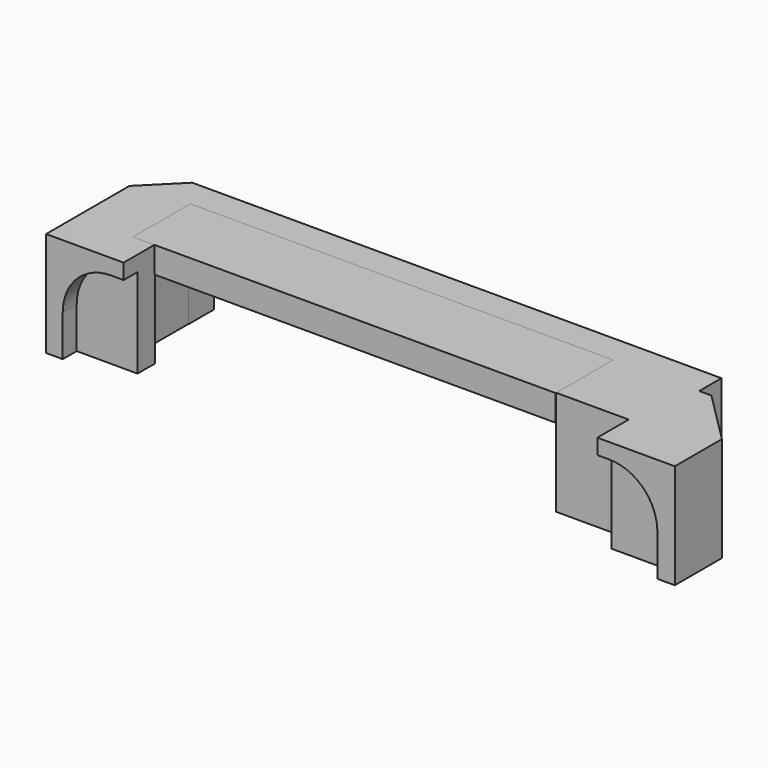
from build123d import *

# Parameters (mm, degrees)
PAD058_DEPTH    = 6
SKETCH116_W     = 24.152938
SKETCH116_H     = 2.034207
POCKET050_DEPTH = 3
CHAMFER024_SIZE = 1.3
POCKET051_DEPTH = 1
CHAMFER025_SIZE = 3
CHAMFER026_SIZE = 2
SKETCH118_W     = 4.108101
SKETCH118_H     = 1.495963
PAD059_DEPTH    = 24.2


with BuildPart() as part:
    # Sketch114 → Pad058 (new body)
    with BuildSketch(Plane.XY):
        Polygon((-15.503727, 39.327935), (-15.503727, 35.407935), (-14.27799, 35.407935), (-14.27799, 33.164592), (-18.715471, 33.164592), (-18.715471, 41.127935), (13.584529, 41.127935), (13.584529, 39.535906), (17.284529, 39.535906), (17.284529, 33.164592), (12.847047, 33.164592), (12.847047, 35.407935), (8.696273, 35.407935), (8.696273, 39.327935), align=None)
    extrude(amount=-PAD058_DEPTH)

    # Sketch116 (on Face16 of Pad058) → Pocket050 (cut)
    with BuildSketch(Plane(origin=(0, 0, -6), x_dir=(1, 0, 0), z_dir=(0, 0, -1))):
        with Locations((-3.408288, -40.288675)):
            Rectangle(SKETCH116_W, SKETCH116_H)
    extrude(amount=-POCKET050_DEPTH, mode=Mode.SUBTRACT)

    # Chamfer024
    chamfer024_edges = [part.edges().sort_by_distance(p)[0] for p in [
        (-3.408288, 39.327935, -3),
    ]]
    chamfer(chamfer024_edges, length=CHAMFER024_SIZE)

    # Sketch117 (on Face19 of Chamfer024) → Pocket051 (cut)
    with BuildSketch(Plane.XZ.offset(-33.164592)):
        with BuildLine():
            ThreePointArc((-15.001854, -0.878892), (-16.953469, -1.687277), (-17.761854, -3.638892))
            Line((-17.761854, -3.638892), (-17.761854, -7.738892))
            Line((-17.761854, -7.738892), (16.288146, -7.738892))
            Line((16.288146, -7.738892), (16.288146, -3.638892))
            ThreePointArc((16.288146, -3.638892), (15.479761, -1.687277), (13.528146, -0.878892))
            Line((-15.001854, -0.878892), (13.528146, -0.878892))
        make_face()
    extrude(amount=-POCKET051_DEPTH, mode=Mode.SUBTRACT)

    # Chamfer025
    chamfer025_edges = [part.edges().sort_by_distance(p)[0] for p in [
        (17.284529, 39.535906, -3),
    ]]
    chamfer(chamfer025_edges, length=CHAMFER025_SIZE)

    # Chamfer026
    chamfer026_edges = [part.edges().sort_by_distance(p)[0] for p in [
        (-18.715471, 41.127935, -3),
    ]]
    chamfer(chamfer026_edges, length=CHAMFER026_SIZE)

    # Sketch118 (on Face13 of Chamfer026) → Pad059 (join)
    with BuildSketch(Plane.YZ.offset(-15.503727)):
        with Locations((37.423758, -0.747981)):
            Rectangle(SKETCH118_W, SKETCH118_H)
    extrude(amount=PAD059_DEPTH)


solid = part.part
